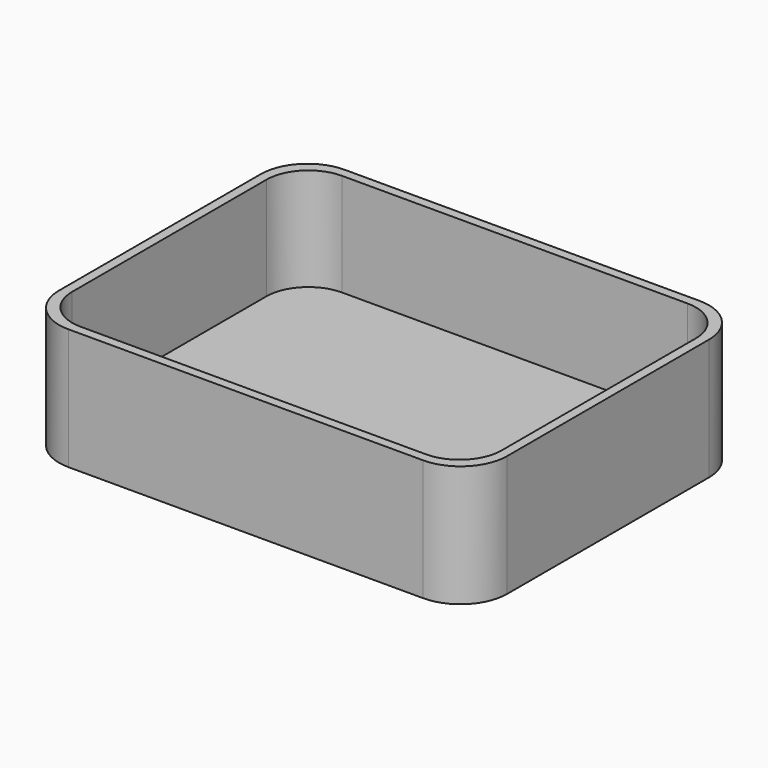
from build123d import *

# Parameters (mm, degrees)
F0_W     = 480
F0_H     = 370
F1_DEPTH = 130
F2_R     = 50
F4_DEPTH = 110


with BuildPart() as f1:
    # F0 (on Top) → F1 (new body)
    with BuildSketch(Plane.XY):
        Rectangle(F0_W, F0_H)
    extrude(amount=F1_DEPTH)

    # F2
    f2_edges = [f1.edges().sort_by_distance(p)[0] for p in [
        (240, -185, 65),
        (-240, -185, 65),
        (240, 185, 65),
        (-240, 185, 65),
    ]]
    fillet(f2_edges, radius=F2_R)

    # F3 (on face) → F4 (cut)
    with BuildSketch(Plane.XY.offset(130)):
        with BuildLine():
            ThreePointArc((230, 130), (216.819805, 161.819805), (185, 175))
            Line((185, 175), (-185, 175))
            ThreePointArc((-185, 175), (-216.819805, 161.819805), (-230, 130))
            Line((-230, 130), (-230, -130))
            ThreePointArc((-230, -130), (-216.819805, -161.819805), (-185, -175))
            Line((-185, -175), (185, -175))
            ThreePointArc((185, -175), (216.819805, -161.819805), (230, -130))
            Line((230, -130), (230, 130))
        make_face()
    extrude(amount=-F4_DEPTH, mode=Mode.SUBTRACT)


solid = f1.part
